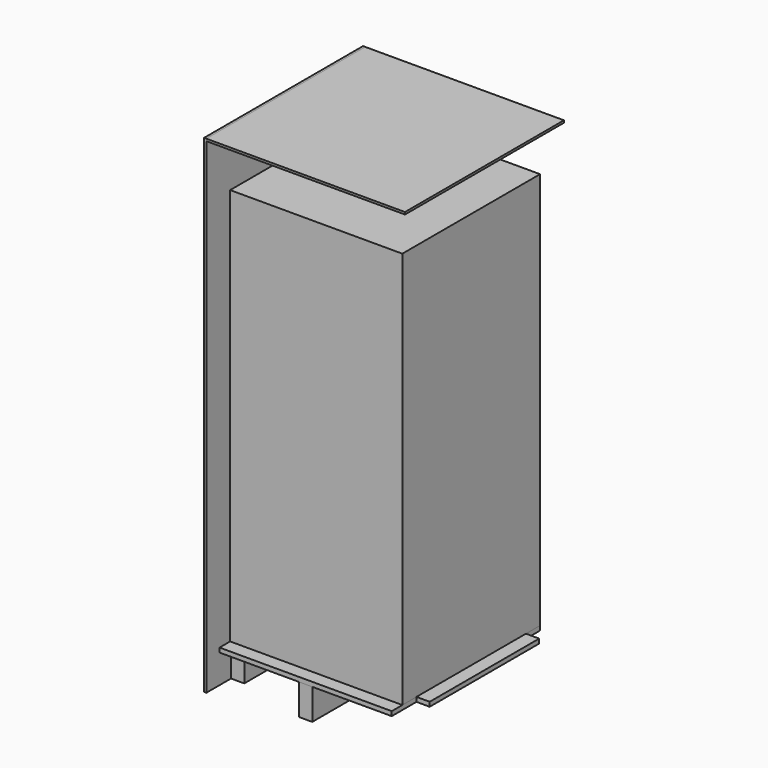
from build123d import *

# Parameters (mm, degrees)
F0_W      = 495.3
F0_H      = 495.3
F1_DEPTH  = 571.5
F2_W      = 38.1
F2_H      = 88.9
F3_DEPTH  = 698.5
F5_DEPTH  = 12.7
F6_W      = 393.7
F6_H      = 88.9
F7_DEPTH  = 38.1
F8_W      = 38.1
F8_H      = 88.9
F9_DEPTH  = 533.4
F10_W     = 571.5
F10_H     = 571.5
F11_DEPTH = 6.35
F12_W     = 571.5
F12_H     = 1403.35
F13_DEPTH = 6.35


with BuildPart() as f1:
    # F0 (on Top) → F1 (new body, symmetric)
    with BuildSketch(Plane.XY):
        Rectangle(F0_W, F0_H)
    extrude(amount=F1_DEPTH, both=True)


with BuildPart() as f3:
    # F2 (on Top) → F3 (new body, symmetric)
    with BuildSketch(Plane.XY):
        with Locations((-266.7, 241.3)):
            Rectangle(F2_W, F2_H)
    extrude(amount=F3_DEPTH, both=True)


with BuildPart() as f5:
    # F4 (on face) → F5 (new body)
    with BuildSketch(Plane(origin=(0, 0, -571.5), x_dir=(1, 0, 0), z_dir=(0, 0, -1))):
        Polygon((247.65, 285.75), (-247.65, 285.75), (-247.65, 196.85), (-285.75, 196.85), (-285.75, -196.85), (-247.65, -196.85), (-247.65, -247.65), (247.65, -247.65), (247.65, -196.85), (285.75, -196.85), (285.75, 196.85), (247.65, 196.85), align=None)
    extrude(amount=F5_DEPTH)


with BuildPart() as f7:
    # F6 (on face) → F7 (new body, through all)
    with BuildSketch(Plane(origin=(-285.75, 0, 0), x_dir=(0, -1, 0), z_dir=(-1, 0, 0))):
        with Locations((0, -654.05)):
            Rectangle(F6_W, F6_H)
    extrude(amount=-F7_DEPTH)


with BuildPart() as f9:
    # F8 (on face) → F9 (new body, through all)
    with BuildSketch(Plane.XZ.offset(285.75)):
        with Locations((0, -628.65)):
            Rectangle(F8_W, F8_H)
    extrude(amount=-F9_DEPTH)


with BuildPart() as f11:
    # F10 (on face) → F11 (new body)
    with BuildSketch(Plane.XY.offset(698.5)):
        Rectangle(F10_W, F10_H)
    extrude(amount=F11_DEPTH)


with BuildPart() as f13:
    # F12 (on face) → F13 (new body)
    with BuildSketch(Plane(origin=(-285.75, 0, 0), x_dir=(0, -1, 0), z_dir=(-1, 0, 0))):
        with Locations((0, 3.175)):
            Rectangle(F12_W, F12_H)
    extrude(amount=F13_DEPTH)


solid = Compound([f1.part, f3.part, f5.part, f7.part, f9.part, f11.part, f13.part])
